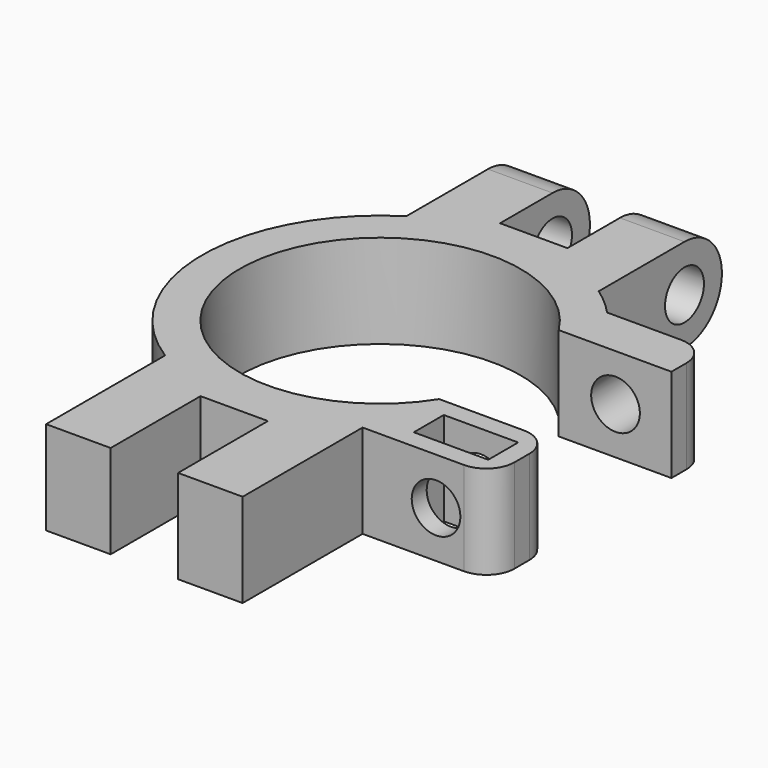
from build123d import *

# Parameters (mm, degrees)
F0_W     = 7.95
F0_H     = 4
F1_DEPTH = 10
F2_R     = 2.6
F3_DEPTH = 21
F4_R     = 2.6
F5_DEPTH = 50
F6_R     = 3


with BuildPart() as f1:
    # F0 (on Top) → F1 (new body)
    with BuildSketch(Plane.XY):
        with BuildLine():
            Line((24.738697, 12.982003), (13.873269, 12.982003))
            ThreePointArc((13.873269, 12.982003), (12.462028, 14.342171), (10.918168, 15.549714))
            Line((10.918168, 15.549714), (10.918168, 32))
            Line((10.918168, 32), (4.018168, 32))
            Line((4.018168, 32), (4.018168, 20))
            Line((4.018168, 20), (-3.181832, 20))
            Line((-3.181832, 20), (-3.181832, 32))
            Line((-3.181832, 32), (-10.081832, 32))
            Line((-10.081832, 32), (-10.081832, 16.104554))
            ThreePointArc((-10.081832, 16.104554), (-19, 0), (-10.081832, -16.104554))
            ThreePointArc((-10.081832, -16.104554), (-6.760669, -17.756502), (-3.181832, -18.731683))
            ThreePointArc((-3.181832, -18.731683), (0.425887, -18.995226), (4.018168, -18.570254))
            ThreePointArc((4.018168, -18.570254), (7.26281, -17.557095), (10.274998, -15.982003))
            Line((10.274998, -15.982003), (10.918168, -15.982003))
            Line((10.918168, -15.982003), (12.699907, -15.982003))
            Line((12.699907, -15.982003), (24.738697, -15.982003))
            Line((24.738697, -15.982003), (24.738697, -7.982003))
            Line((24.738697, -7.982003), (12.699907, -7.982003))
            ThreePointArc((12.699907, -7.982003), (-15, 0), (12.699907, 7.982003))
            Line((12.699907, 7.982003), (24.738697, 7.982003))
            Line((24.738697, 7.982003), (24.738697, 12.982003))
        make_face()
        with Locations((18.763697, -11.982003)):
            Rectangle(F0_W, F0_H, mode=Mode.SUBTRACT)
        with BuildLine():
            Line((10.918168, -32), (10.918168, -15.982003))
            Line((10.918168, -15.982003), (10.274998, -15.982003))
            ThreePointArc((10.274998, -15.982003), (7.26281, -17.557095), (4.018168, -18.570254))
            Line((4.018168, -18.570254), (4.018168, -20))
            Line((4.018168, -20), (4.018168, -32))
            Line((4.018168, -32), (10.918168, -32))
        make_face()
        with BuildLine():
            ThreePointArc((-3.181832, -18.731683), (-6.760669, -17.756502), (-10.081832, -16.104554))
            Line((-10.081832, -16.104554), (-10.081832, -32))
            Line((-10.081832, -32), (-3.181832, -32))
            Line((-3.181832, -32), (-3.181832, -20))
            Line((-3.181832, -20), (-3.181832, -18.731683))
        make_face()
        with BuildLine():
            ThreePointArc((4.018168, -18.570254), (0.425887, -18.995226), (-3.181832, -18.731683))
            Line((-3.181832, -18.731683), (-3.181832, -20))
            Line((-3.181832, -20), (4.018168, -20))
            Line((4.018168, -20), (4.018168, -18.570254))
        make_face()
    extrude(amount=F1_DEPTH)

    # F2 (on face) → F3 (cut, through all)
    with BuildSketch(Plane.YZ.offset(10.918168)):
        with BuildLine():
            ThreePointArc((32, 5), (30.535534, 1.464466), (27, 0))
            Line((27, 0), (32, 0))
            Line((32, 0), (32, 5))
        make_face()
        with BuildLine():
            ThreePointArc((27, 10), (30.535534, 8.535534), (32, 5))
            Line((32, 5), (32, 10))
            Line((32, 10), (27, 10))
        make_face()
        with Locations((27, 5)):
            Circle(F2_R)
    extrude(amount=-F3_DEPTH, mode=Mode.SUBTRACT)

    # F4 (on face) → F5 (cut, symmetric)
    with BuildSketch(Plane(origin=(0, -13.982003, 0), x_dir=(-1, 0, 0), z_dir=(0, 1, 0))):
        with Locations((-18.763697, 5)):
            Circle(F4_R)
    extrude(amount=F5_DEPTH, both=True, mode=Mode.SUBTRACT)

    # F6
    f6_edges = [f1.edges().sort_by_distance(p)[0] for p in [
        (24.738697, 12.982003, 5),
        (24.738697, -7.982003, 5),
        (24.738697, -15.982003, 5),
    ]]
    fillet(f6_edges, radius=F6_R)


solid = f1.part
